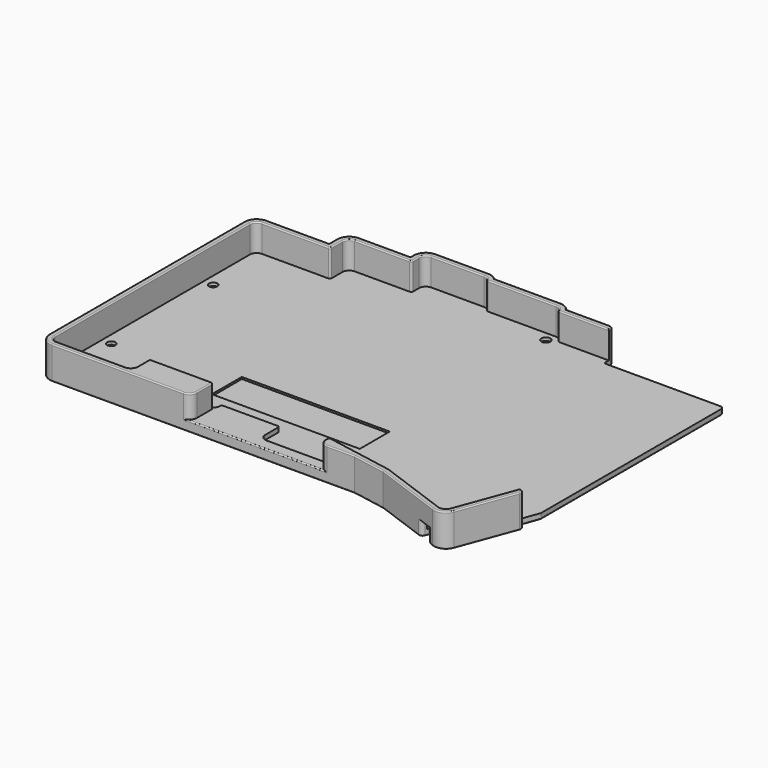
from build123d import *

# Parameters (mm, degrees)
PAD011_DEPTH         = 7.3
PAD011_DEPTH_BACK    = 1.5
POCKET013_DEPTH      = 10
SKETCH032_W          = 7.516364
SKETCH032_H          = 7.12941
POCKET014_DEPTH      = 10
POCKET014_DEPTH_BACK = 10
SKETCH033_R          = 1.2
SKETCH033_R_2        = 1.1
POCKET015_DEPTH      = 20
FILLET004_R          = 1
FILLET005_R          = 0.499
SKETCH035_R          = 2.5
POCKET017_DEPTH      = 5
SKETCH034_W          = 39.5
SKETCH034_H          = 10
POCKET016_DEPTH      = 0.5
POCKET018_DEPTH      = 10
FILLET006_R          = 2
FILLET007_R          = 0.5
POCKET020_DEPTH      = 5
POCKET020_DEPTH_BACK = 2.4
FILLET010_R          = 1
FILLET008_R          = 0.299


with BuildPart() as case_trackball001:
    # Sketch029 → Pad011 (new body, two sides)
    with BuildSketch(Plane.XY.offset(-5.1)) as pad011_sk:
        with BuildLine():
            Line((78.000001, -76.1), (15.615872, -76.1))
            Line((6.65976, -77.728932), (15.615872, -76.1))
            Line((-11.88183, -84.480745), (6.65976, -77.728932))
            ThreePointArc((-16.10595, -82.524941), (-14.397471, -84.374493), (-11.88183, -84.480745))
            Line((-21.988183, -66.62453), (-16.10595, -82.524941))
            Line((-20.3, -66), (-21.988183, -66.62453))
            Line((-22.1, -61.054541), (-20.3, -66))
            Line((-22.1, 0), (-22.1, -61.054541))
            Line((8.1, 0), (-22.1, 0))
            Line((8.1, 3.1), (8.1, 0))
            Line((22.434137, 3.1), (8.1, 3.1))
            ThreePointArc((25.199999, 4.6), (23.626787, 4.200862), (22.434137, 3.1))
            Line((42.840325, 4.6), (25.199999, 4.6))
            ThreePointArc((45.3, 5.7), (43.952781, 5.412474), (42.840325, 4.6))
            Line((59.400001, 5.7), (45.3, 5.7))
            ThreePointArc((62.7, 2.400001), (61.733452, 4.733452), (59.400001, 5.7))
            Line((62.7, 1.4), (62.7, 2.400001))
            Line((76.400001, 1.4), (62.7, 1.4))
            ThreePointArc((79.7, -1.899999), (78.733452, 0.433452), (76.400001, 1.4))
            Line((79.7, -4.5), (79.7, -1.899999))
            Line((96.400001, -4.5), (79.7, -4.5))
            ThreePointArc((99.7, -7.799999), (98.733452, -5.466548), (96.400001, -4.5))
            Line((99.7, -59.8), (99.7, -7.799999))
            Line((99.7, -72.800001), (99.7, -59.8))
            ThreePointArc((96.400001, -76.1), (98.733452, -75.133452), (99.7, -72.800001))
            Line((78.000001, -76.1), (96.400001, -76.1))
        make_face()
    extrude(amount=PAD011_DEPTH)
    extrude(pad011_sk.sketch, amount=-PAD011_DEPTH_BACK)

    # Sketch031 → Pocket013 (cut)
    with BuildSketch(Plane.XY.offset(-5.1)):
        with BuildLine():
            Line((-22.1, 0.3), (5, 0.3))
            Line((9.6, 0.3), (5, 0.3))
            Line((9.6, 1.3), (9.6, 0.3))
            ThreePointArc((9.9, 1.6), (9.687868, 1.512132), (9.6, 1.3))
            Line((23.425176, 1.6), (9.9, 1.6))
            ThreePointArc((25.2, 3.1), (24.038105, 2.674773), (23.425176, 1.6))
            Line((43.641688, 3.1), (25.2, 3.1))
            ThreePointArc((45.3, 4.2), (44.305013, 3.9), (43.641688, 3.1))
            Line((59.4, 4.2), (45.3, 4.2))
            ThreePointArc((61.2, 2.4), (60.672792, 3.672792), (59.4, 4.2))
            Line((61.2, -0.1), (61.2, 2.4))
            Line((76.4, -0.1), (61.2, -0.1))
            ThreePointArc((78.2, -1.9), (77.672792, -0.627208), (76.4, -0.1))
            Line((78.2, -6), (78.2, -1.9))
            Line((96.4, -6), (78.2, -6))
            ThreePointArc((98.2, -7.8), (97.672792, -6.527208), (96.4, -6))
            Line((98.2, -59.8), (98.2, -7.8))
            Line((98.2, -72.8), (98.2, -59.8))
            ThreePointArc((96.4, -74.6), (97.672792, -74.072792), (98.2, -72.8))
            Line((78, -74.6), (96.4, -74.6))
            ThreePointArc((76.2, -72.8), (76.727208, -74.072792), (78, -74.6))
            Line((76.2, -68.7), (76.2, -72.8))
            Line((68.6, -68.7), (76.2, -68.7))
            Line((67.1, -68.7), (68.6, -68.7))
            Line((60.7, -68.7), (67.1, -68.7))
            ThreePointArc((58.9, -66.9), (59.427208, -68.172792), (60.7, -68.7))
            Line((58.9, -66.4), (58.9, -66.9))
            Line((51.15, -66.4), (58.9, -66.4))
            Line((49.65, -66.4), (51.15, -66.4))
            Line((43.4, -66.4), (49.65, -66.4))
            Line((43.4, -71.2), (43.4, -66.4))
            ThreePointArc((41.6, -73), (42.872792, -72.472792), (43.4, -71.2))
            Line((41.400037, -73), (41.6, -73))
            Line((24.254102, -73.004276), (41.400037, -73))
            Line((6.266115, -76.275919), (24.254102, -73.004276))
            Line((-12.395075, -83.071263), (6.266115, -76.275919))
            ThreePointArc((-14.699153, -82.00444), (-13.767262, -83.013318), (-12.395075, -83.071263))
            Line((-22.381364, -61.238463), (-14.699153, -82.00444))
            ThreePointArc((-22.4, -61.134375), (-22.395304, -61.187247), (-22.381364, -61.238463))
            Line((-22.4, 0), (-22.4, -61.134375))
            ThreePointArc((-22.1, 0.3), (-22.312132, 0.212132), (-22.4, 0))
        make_face()
    extrude(amount=POCKET013_DEPTH, mode=Mode.SUBTRACT)

    # Sketch032 → Pocket014 (cut, two sides)
    with BuildSketch(Plane.XY.offset(-5.1)) as pocket014_sk:
        with Locations((6.141818, 3.564705)):
            Rectangle(SKETCH032_W, SKETCH032_H)
    extrude(amount=POCKET014_DEPTH, mode=Mode.SUBTRACT)
    extrude(pocket014_sk.sketch, amount=-POCKET014_DEPTH_BACK, mode=Mode.SUBTRACT)

    # Sketch033 → Pocket015 (cut)
    with BuildSketch(Plane.XY):
        with Locations((25.9, 0.6)):
            Circle(SKETCH033_R)
        with Locations((25.9, 0.6)):
            Circle(SKETCH033_R)
        with Locations((95.6, -23.3)):
            Circle(SKETCH033_R_2)
        with Locations((95.6, -57.3)):
            Circle(SKETCH033_R_2)
        with Locations((-14, -73.8)):
            Circle(SKETCH033_R)
    extrude(amount=-POCKET015_DEPTH, mode=Mode.SUBTRACT)

    # Fillet004
    fillet004_edges = [case_trackball001.edges().sort_by_distance(p)[0] for p in [
        (9.9, 3.1, -2.2),
        (-22.1, 0, -5.85),
        (-21.988183, -66.62453, -2.2),
    ]]
    fillet(fillet004_edges, radius=FILLET004_R)

    # Fillet005
    fillet005_edges = [case_trackball001.edges().sort_by_distance(p)[0] for p in [
        (23.425176, 1.6, -1.45),
        (43.641688, 3.1, -1.45),
        (61.2, -0.1, -1.45),
        (78.2, -6, -1.45),
        (58.9, -66.4, -1.45),
        (76.2, -68.7, -1.45),
        (43.4, -66.4, -1.45),
        (9.9, 0, -5.85),
    ]]
    fillet(fillet005_edges, radius=FILLET005_R)

    # Sketch035 → Pocket017 (cut)
    with BuildSketch(Plane.XY.offset(-5.9)):
        with Locations((95.6, -23.3)):
            Circle(SKETCH035_R)
        with Locations((95.6, -57.3)):
            Circle(SKETCH035_R)
        with Locations((-14, -73.8)):
            Circle(SKETCH035_R)
        with Locations((25.9, 0.6)):
            Circle(SKETCH035_R)
    extrude(amount=-POCKET017_DEPTH, mode=Mode.SUBTRACT)

    # Sketch034 → Pocket016 (cut)
    with BuildSketch(Plane.XY.offset(-5.1)):
        with Locations((45.25, -57)):
            Rectangle(SKETCH034_W, SKETCH034_H)
    extrude(amount=-POCKET016_DEPTH, mode=Mode.SUBTRACT)

    # Sketch036 → Pocket018 (cut)
    with BuildSketch(Plane.XY.offset(-3.9)):
        Polygon((25, -61.15797), (25, -86.452461), (59.3, -86.452461), (59.3, -68.7), (63.7, -68.7), (63.7, -61.15797), align=None)
    extrude(amount=POCKET018_DEPTH, mode=Mode.SUBTRACT)

    # Fillet006
    fillet006_edges = [case_trackball001.edges().sort_by_distance(p)[0] for p in [
        (25, -76.1, -0.85),
        (59.3, -76.1, -0.85),
    ]]
    fillet(fillet006_edges, radius=FILLET006_R)

    # Fillet007
    fillet007_edges = [case_trackball001.edges().sort_by_distance(p)[0] for p in [
        (25, -73.00409, -0.85),
        (59.3, -68.7, -0.85),
    ]]
    fillet(fillet007_edges, radius=FILLET007_R)

    # Sketch038 → Pocket020 (cut, two sides)
    with BuildSketch(Plane.XY.offset(-5.1)) as pocket020_sk:
        with BuildLine():
            Line((-10.968916, -82.240644), (-10.319078, -84.02606))
            Line((-10.319078, -84.02606), (-7.5, -83))
            Line((-7.5, -83), (-8.149838, -81.214584))
            ThreePointArc((-8.149838, -81.214584), (-10.072407, -80.318075), (-10.968916, -82.240644))
        make_face()
    extrude(amount=-POCKET020_DEPTH, mode=Mode.SUBTRACT)
    extrude(pocket020_sk.sketch, amount=POCKET020_DEPTH_BACK, mode=Mode.SUBTRACT)

    # Fillet010
    fillet010_edges = [case_trackball001.edges().sort_by_distance(p)[0] for p in [
        (-10.355838, -83.925064, -4.65),
        (-7.536917, -82.89857, -4.65),
    ]]
    fillet(fillet010_edges, radius=FILLET010_R)

    # Fillet008
    fillet008_edges = [case_trackball001.edges().sort_by_distance(p)[0] for p in [
        (25, -73.802107, 2.2),
        (24.853509, -73.150617, 2.2),
        (24.414214, -75.514214, 2.2),
        (24.376989, -73.004246, 2.2),
        (19.307936, -76.1, 2.2),
        (15.260108, -74.640098, 2.2),
        (11.137816, -76.914466, 2.2),
        (-3.06448, -79.673591, 2.2),
        (-2.611035, -81.104839, 2.2),
        (-13.767262, -83.013318, 2.2),
        (-14.397471, -84.374493, 2.2),
        (-17.640258, -74.054264, 2.2),
        (-18.873586, -75.043675, 2.2),
        (-20.815834, -66.190829, 2.2),
        (-21.611862, -66.797606, 2.2),
        (42.15, -76.1, -3.9),
        (0.031313, -80.142643, -6.6),
        (-7.361846, -82.523053, -6.6),
        (11.137816, -76.914466, -6.6),
        (-8.014414, -81.586659, -6.6),
        (56.007936, -76.1, -6.6),
        (-10.072407, -80.318075, -6.6),
        (98.733452, -75.133452, -6.6),
        (-10.833361, -82.61308, -6.6),
        (99.7, -40.3, -6.6),
        (-10.731158, -83.750085, -6.6),
        (98.733452, -5.466548, -6.6),
        (-11.588581, -84.373961, -6.6),
        (88.05, -4.5, -6.6),
        (-14.397471, -84.374493, -6.6),
        (79.7, -3.2, -6.6),
        (-18.873586, -75.043675, -6.6),
        (78.733452, 0.433452, -6.6),
        (-21.611862, -66.797606, -6.6),
        (69.55, 1.4, -6.6),
        (-20.675152, -66.138784, -6.6),
        (62.7, 1.9, -6.6),
        (-21.2, -63.527271, -6.6),
        (61.733452, 4.733452, -6.6),
        (-22.1, -31.027271, -6.6),
        (52.35, 5.7, -6.6),
        (-21.807107, -0.292893, -6.6),
        (43.952781, 5.412474, -6.6),
        (-5.8495, 0, -6.6),
        (34.020162, 4.6, -6.6),
        (9.753846, 0.146154, -6.6),
        (23.626787, 4.200862, -6.6),
        (9.9, 1.2995, -6.6),
        (16.667068, 3.1, -6.6),
        (10.192893, 2.807107, -6.6),
        (-16.5, -73.8, -6.6),
        (93.1, -57.3, -6.6),
        (23.4, 0.6, -6.6),
        (93.1, -23.3, -6.6),
        (59.3, -71.65, 2.2),
        (59.446447, -68.846447, 2.2),
        (59.885786, -75.514214, 2.2),
        (67.7505, -68.7, 2.2),
        (78.85, -76.1, 2.2),
        (76.053846, -68.846154, 2.2),
        (98.733452, -75.133452, 2.2),
        (76.2, -70.9995, 2.2),
        (99.7, -40.3, 2.2),
        (76.727208, -74.072792, 2.2),
        (98.733452, -5.466548, 2.2),
        (87.2, -74.6, 2.2),
        (88.05, -4.5, 2.2),
        (97.672792, -74.072792, 2.2),
        (79.7, -3.2, 2.2),
        (98.2, -40.3, 2.2),
        (78.733452, 0.433452, 2.2),
        (97.672792, -6.527208, 2.2),
        (69.55, 1.4, 2.2),
        (87.5495, -6, 2.2),
        (62.7, 1.9, 2.2),
        (78.346154, -5.853846, 2.2),
        (61.733452, 4.733452, 2.2),
        (78.2, -3.7005, 2.2),
        (52.35, 5.7, 2.2),
        (77.672792, -0.627208, 2.2),
        (43.952781, 5.412474, 2.2),
        (69.0495, -0.1, 2.2),
        (34.020162, 4.6, 2.2),
        (61.346154, 0.046154, 2.2),
        (23.626787, 4.200862, 2.2),
        (61.2, 1.3995, 2.2),
        (16.667068, 3.1, 2.2),
        (60.672792, 3.672792, 2.2),
        (10.192893, 2.807107, 2.2),
        (52.35, 4.2, 2.2),
        (9.9, 1.85, 2.2),
        (44.419591, 3.969994, 2.2),
        (16.472155, 1.6, 2.2),
        (43.582488, 3.163763, 2.2),
        (23.329321, 1.689403, 2.2),
        (34.269209, 3.1, 2.2),
        (24.171904, 2.777504, 2.2),
    ]]
    fillet(fillet008_edges, radius=FILLET008_R)


with BuildPart() as case_trackball001_1:
    # Link001 placement: moved
    add(case_trackball001.part.moved(Location((0, 200, 0))))


with BuildPart() as part_mirroring001:
    # Part__Mirroring001: instance of case-trackball001
    add(case_trackball001_1.part.mirror(Plane(origin=(0, 0, 0), x_dir=(0, -1, 0), z_dir=(1, 0, 0))))


with BuildPart() as part_mirroring001_1:
    # Part__Mirroring001 placement: moved
    add(part_mirroring001.part.moved(Location((-50, 0, 0))))


solid = part_mirroring001_1.part
